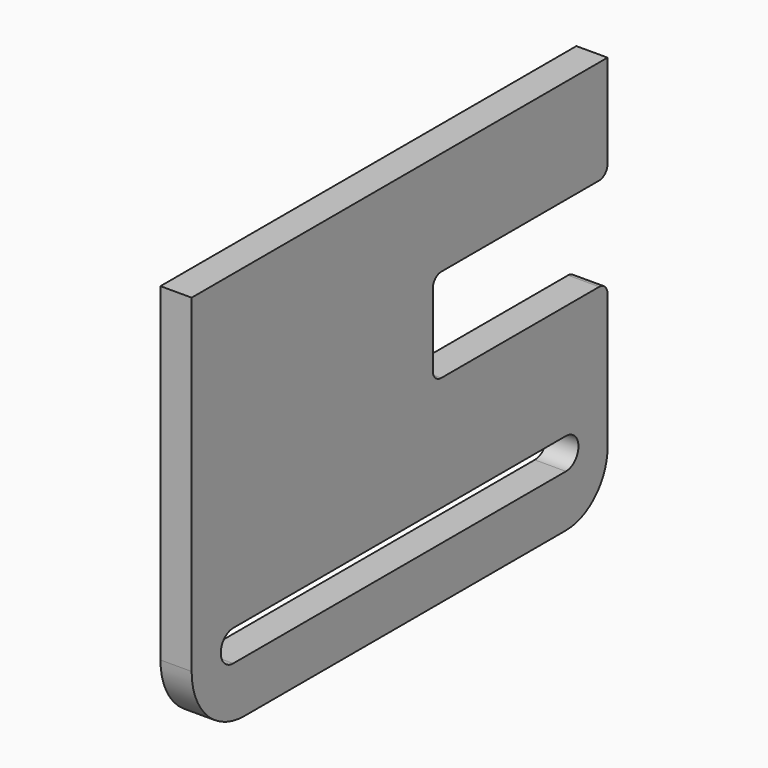
from build123d import *

# Parameters (mm, degrees)
F1_DEPTH = 3


with BuildPart() as f1:
    # F0 (on Right) → F1 (new body)
    with BuildSketch(Plane.YZ):
        with BuildLine():
            Line((24.302642, 18.09855), (-25.697358, 18.09855))
            Line((-25.697358, 18.09855), (-25.697358, -13.55145))
            ThreePointArc((-25.697358, -13.55145), (-23.837486, -18.041578), (-19.347358, -19.90145))
            Line((-19.347358, -19.90145), (19.302642, -19.90145))
            ThreePointArc((19.302642, -19.90145), (22.838176, -18.436984), (24.302642, -14.90145))
            Line((24.302642, -14.90145), (24.302642, -1.90145))
            ThreePointArc((24.302642, -1.90145), (24.009749, -1.194343), (23.302642, -0.90145))
            Line((23.302642, -0.90145), (4.302642, -0.90145))
            ThreePointArc((4.302642, -0.90145), (3.595536, -0.608557), (3.302642, 0.09855))
            Line((3.302642, 0.09855), (3.302642, 7.09855))
            ThreePointArc((3.302642, 7.09855), (3.595536, 7.805657), (4.302642, 8.09855))
            Line((4.302642, 8.09855), (23.302642, 8.09855))
            ThreePointArc((23.302642, 8.09855), (24.009749, 8.391443), (24.302642, 9.09855))
            Line((24.302642, 9.09855), (24.302642, 18.09855))
        make_face()
        with BuildLine():
            ThreePointArc((-20.697358, -14.90145), (-22.197358, -13.40145), (-20.697358, -11.90145))
            Line((-20.697358, -11.90145), (19.302642, -11.90145))
            ThreePointArc((19.302642, -11.90145), (20.802642, -13.40145), (19.302642, -14.90145))
            Line((19.302642, -14.90145), (-20.697358, -14.90145))
        make_face(mode=Mode.SUBTRACT)
    extrude(amount=F1_DEPTH)


solid = f1.part
